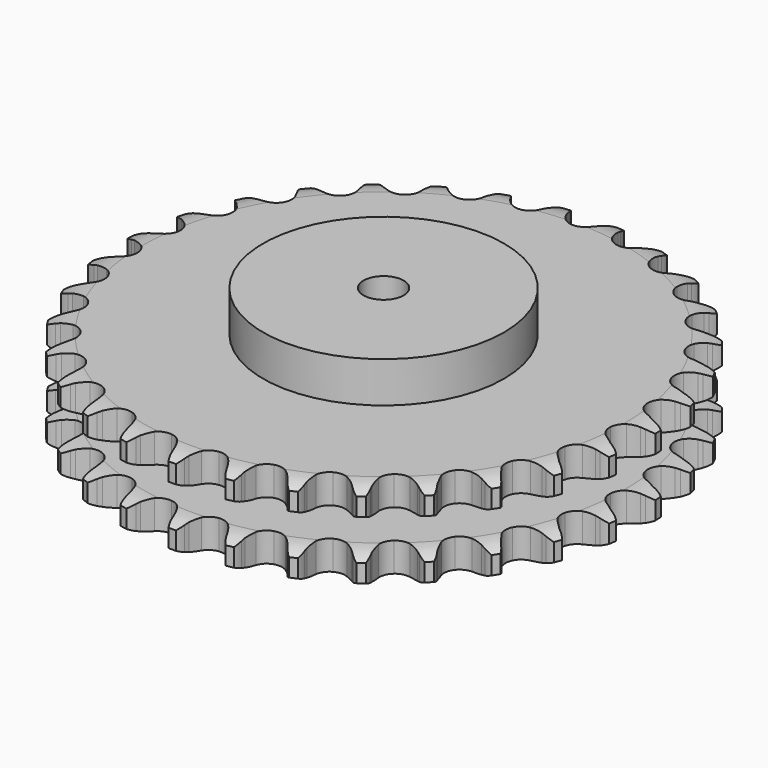
from build123d import *

# Parameters (mm, degrees)
PAD_DEPTH         = 54.6
SKETCH001_R       = 75
PAD001_DEPTH      = 80
SKETCH002_R       = 12.5
POCKET_DEPTH      = 0.001
POCKET_DEPTH_BACK = 80.001


with BuildPart() as part:
    # Sprocket → Pad (new body)
    with BuildSketch(Plane.XY):
        with BuildLine():
            ThreePointArc((-16.92638, 166.450678), (-13.997799, 163.426151), (-11.987645, 159.727012))
            Line((-11.987645, 159.727012), (-11.058502, 157.27354))
            ThreePointArc((-11.058502, 157.27354), (-9.587238, 154.08802), (-7.681974, 151.141475))
            ThreePointArc((-7.681974, 151.141475), (-4.293126, 148.318155), (0, 147.305983))
            ThreePointArc((0, 147.305983), (4.293126, 148.318155), (7.681974, 151.141475))
            ThreePointArc((7.681974, 151.141475), (9.587238, 154.08802), (11.058502, 157.27354))
            Line((11.058502, 157.27354), (11.987645, 159.727012))
            ThreePointArc((11.987645, 159.727012), (13.997799, 163.426151), (16.92638, 166.450678))
            ThreePointArc((16.92638, 166.450678), (19.186179, 162.898544), (20.410554, 158.870486))
            Line((20.410554, 158.870486), (20.826797, 156.280201))
            ThreePointArc((20.826797, 156.280201), (21.626704, 152.863726), (22.899832, 149.59397))
            ThreePointArc((22.899832, 149.59397), (25.650979, 146.146274), (29.652476, 144.29062))
            ThreePointArc((29.652476, 144.29062), (34.061471, 144.417874), (37.949279, 146.50123))
            Line((37.949279, 146.50123), (42.491065, 151.828081))
            ThreePointArc((42.491065, 151.828081), (43.1638, 152.954729), (43.895068, 154.044296))
            ThreePointArc((43.895068, 154.044296), (46.608706, 157.263072), (50.086171, 159.636168))
            ThreePointArc((50.086171, 159.636168), (51.584672, 155.701852), (51.973143, 151.509783))
            Line((51.973143, 151.509783), (51.859444, 148.888733))
            ThreePointArc((51.859444, 148.888733), (51.955245, 145.381173), (52.544116, 141.922071))
            ThreePointArc((52.544116, 141.922071), (54.544931, 137.991147), (58.090977, 135.367983))
            ThreePointArc((58.090977, 135.367983), (62.435335, 134.605108), (66.662936, 135.863208))
            Line((66.662936, 135.863208), (72.184038, 140.166763))
            ThreePointArc((72.184038, 140.166763), (73.069795, 141.134928), (74.005422, 142.054988))
            ThreePointArc((74.005422, 142.054988), (77.311447, 144.661624), (81.195428, 146.286134))
            ThreePointArc((81.195428, 146.286134), (81.871283, 142.130708), (81.407945, 137.946252))
            Line((81.407945, 137.946252), (80.76896, 135.401742))
            ThreePointArc((80.76896, 135.401742), (80.156733, 131.946698), (80.037237, 128.439865))
            ThreePointArc((80.037237, 128.439865), (81.205807, 124.186646), (84.151226, 120.903365))
            ThreePointArc((84.151226, 120.903365), (88.253089, 119.281593), (92.647404, 119.66293))
            Line((92.647404, 119.66293), (98.921788, 122.767001))
            ThreePointArc((98.921788, 122.767001), (99.984304, 123.537046), (101.085986, 124.249932))
            ThreePointArc((101.085986, 124.249932), (104.849047, 126.137712), (108.980536, 126.947129))
            ThreePointArc((108.980536, 126.947129), (108.806075, 122.740716), (107.509896, 118.735186))
            Line((107.509896, 118.735186), (106.371785, 116.371389))
            ThreePointArc((106.371785, 116.371389), (105.076595, 113.110309), (104.253625, 109.699316))
            ThreePointArc((104.253625, 109.699316), (104.542107, 105.297929), (106.766314, 101.488949))
            ThreePointArc((106.766314, 101.488949), (110.457751, 99.074676), (114.838877, 98.563637))
            Line((114.838877, 98.563637), (121.609669, 100.341144))
            ThreePointArc((121.609669, 100.341144), (122.805444, 100.881543), (124.028077, 101.358069))
            ThreePointArc((124.028077, 101.358069), (128.094116, 102.449708), (132.303967, 102.410893))
            ThreePointArc((132.303967, 102.410893), (131.286332, 98.325704), (129.210379, 94.663087))
            Line((129.210379, 94.663087), (127.619737, 92.576776))
            ThreePointArc((127.619737, 92.576776), (125.694609, 89.643171), (124.201857, 86.467664))
            ThreePointArc((124.201857, 86.467664), (123.598441, 82.098303), (125.010376, 77.919563))
            ThreePointArc((125.010376, 77.919563), (128.14026, 74.811629), (132.328833, 73.429138))
            Line((132.328833, 73.429138), (139.318836, 73.807308))
            ThreePointArc((139.318836, 73.807308), (140.598915, 74.095937), (141.892444, 74.316595))
            ThreePointArc((141.892444, 74.316595), (146.094997, 74.5674), (150.210858, 73.681944))
            ThreePointArc((150.210858, 73.681944), (148.391712, 69.885227), (145.620974, 66.71547))
            Line((145.620974, 66.71547), (143.642921, 64.99206))
            ThreePointArc((143.642921, 64.99206), (141.166671, 62.506032), (139.065251, 59.696016))
            ThreePointArc((139.065251, 59.696016), (137.594641, 55.537563), (138.136499, 51.160142))
            ThreePointArc((138.136499, 51.160142), (140.576692, 47.485786), (144.401231, 45.288441))
            Line((144.401231, 45.288441), (151.324273, 44.251793))
            ThreePointArc((151.324273, 44.251793), (152.636249, 44.276836), (153.947718, 44.232591))
            ThreePointArc((153.947718, 44.232591), (158.114731, 43.632294), (161.968099, 41.936446))
            ThreePointArc((161.968099, 41.936446), (159.421918, 38.58364), (156.06983, 36.036514))
            Line((156.06983, 36.036514), (153.785348, 34.746562))
            ThreePointArc((153.785348, 34.746562), (150.859352, 32.809888), (148.235297, 30.480406))
            ThreePointArc((148.235297, 30.480406), (145.9577, 26.703108), (145.607298, 22.306218))
            ThreePointArc((145.607298, 22.306218), (147.257897, 18.215869), (150.561825, 15.29363))
            Line((150.561825, 15.29363), (157.134477, 12.884604))
            ThreePointArc((157.134477, 12.884604), (158.424638, 12.645035), (159.700354, 12.337699))
            ThreePointArc((159.700354, 12.337699), (163.661229, 10.910877), (167.094347, 8.474066))
            ThreePointArc((167.094347, 8.474066), (163.925371, 5.702435), (160.129168, 3.882218))
            Line((160.129168, 3.882218), (157.631784, 3.078534))
            ThreePointArc((157.631784, 3.078534), (154.375834, 1.770503), (151.336572, 0.016924))
            ThreePointArc((151.336572, 0.016924), (148.345233, -3.224575), (147.116916, -7.460926))
            ThreePointArc((147.116916, -7.460926), (147.910347, -11.799807), (150.558401, -15.327304))
            Line((150.558401, -15.327304), (156.511576, -19.010083))
            ThreePointArc((156.511576, -19.010083), (157.727103, -19.504454), (158.914839, -20.062299))
            ThreePointArc((158.914839, -20.062299), (162.507418, -22.257232), (165.379733, -25.335243))
            ThreePointArc((165.379733, -25.335243), (161.717701, -27.412229), (157.632799, -28.431015))
            Line((157.632799, -28.431015), (155.024757, -28.715528))
            ThreePointArc((155.024757, -28.715528), (151.572152, -29.341367), (148.24211, -30.44725))
            ThreePointArc((148.24211, -30.44725), (144.659495, -33.020244), (142.603551, -36.922618))
            ThreePointArc((142.603551, -36.922618), (142.507329, -41.332398), (144.391098, -45.320737))
            Line((144.391098, -45.320737), (149.481074, -50.126494))
            ThreePointArc((149.481074, -50.126494), (150.572202, -50.855429), (151.623332, -51.640945))
            ThreePointArc((151.623332, -51.640945), (154.700533, -54.514128), (156.894453, -58.107325))
            ThreePointArc((156.894453, -58.107325), (152.889289, -59.404633), (148.682925, -59.58028))
            Line((148.682925, -59.58028), (146.070997, -59.333974))
            ThreePointArc((146.070997, -59.333974), (142.563087, -59.251997), (139.078599, -59.664911))
            ThreePointArc((139.078599, -59.664911), (135.051381, -61.46406), (132.25198, -64.872693))
            ThreePointArc((132.25198, -64.872693), (131.270045, -69.172836), (132.312406, -73.458733))
            Line((132.312406, -73.458733), (136.330798, -79.19072))
            ThreePointArc((136.330798, -79.19072), (137.252858, -80.124377), (138.124348, -81.105404))
            ThreePointArc((138.124348, -81.105404), (140.560191, -84.539209), (141.985896, -88.500486))
            ThreePointArc((141.985896, -88.500486), (137.801572, -88.965004), (133.645955, -88.290321))
            Line((133.645955, -88.290321), (131.137074, -87.523279))
            ThreePointArc((131.137074, -87.523279), (127.717473, -86.736843), (124.221194, -86.439882))
            ThreePointArc((124.221194, -86.439882), (119.914247, -87.39153), (116.485997, -90.166873))
            ThreePointArc((116.485997, -90.166873), (114.65855, -94.18133), (114.816829, -98.58932))
            Line((114.816829, -98.58932), (117.599124, -105.01287))
            ThreePointArc((117.599124, -105.01287), (118.314365, -106.113024), (118.970537, -107.249398))
            ThreePointArc((118.970537, -107.249398), (120.665298, -111.103245), (121.26442, -115.270426))
            ThreePointArc((121.26442, -115.270426), (117.072242, -114.883138), (113.137503, -113.385746))
            Line((113.137503, -113.385746), (110.834384, -112.129372))
            ThreePointArc((110.834384, -112.129372), (107.643091, -110.670674), (104.278158, -109.675995))
            ThreePointArc((104.278158, -109.675995), (99.867809, -109.741181), (95.951064, -111.769611))
            ThreePointArc((95.951064, -111.769611), (93.352921, -115.334029), (92.620638, -119.683649))
            Line((92.620638, -119.683649), (94.052928, -126.53578))
            ThreePointArc((94.052928, -126.53578), (94.532068, -127.75739), (94.946058, -129.00259))
            ThreePointArc((94.946058, -129.00259), (95.830354, -133.118701), (95.578364, -137.321182))
            ThreePointArc((95.578364, -137.321182), (91.54996, -136.097942), (87.997189, -133.839145))
            Line((87.997189, -133.839145), (85.994121, -132.144874))
            ThreePointArc((85.994121, -132.144874), (83.161788, -130.073633), (80.065963, -128.42196))
            ThreePointArc((80.065963, -128.42196), (75.732772, -127.598015), (71.487882, -128.796487))
            ThreePointArc((71.487882, -128.796487), (68.225411, -131.76494), (66.632546, -135.878115))
            Line((66.632546, -135.878115), (66.656194, -142.8783))
            ThreePointArc((66.656194, -142.8783), (66.879618, -144.171354), (67.034476, -145.4744))
            ThreePointArc((67.034476, -145.4744), (67.072103, -149.684261), (65.979318, -153.749993))
            ThreePointArc((65.979318, -153.749993), (62.279613, -151.740881), (59.25426, -148.813154))
            Line((59.25426, -148.813154), (57.633249, -146.75035))
            ThreePointArc((57.633249, -146.75035), (55.275831, -144.151363), (52.575857, -141.910315))
            ThreePointArc((52.575857, -141.910315), (48.497226, -140.230971), (44.097979, -140.550421))
            ThreePointArc((44.097979, -140.550421), (40.304746, -142.801378), (37.916511, -146.509715))
            Line((37.916511, -146.509715), (36.530547, -153.371366))
            ThreePointArc((36.530547, -153.371366), (36.489108, -154.682926), (36.378495, -155.990471))
            ThreePointArc((36.378495, -155.990471), (35.567913, -160.121731), (33.679072, -163.88426))
            ThreePointArc((33.679072, -163.88426), (30.459531, -161.17153), (28.085454, -157.694734))
            Line((28.085454, -157.694734), (26.912865, -155.34785))
            ThreePointArc((26.912865, -155.34785), (25.126875, -152.327519), (22.93329, -149.588845))
            ThreePointArc((22.93329, -149.588845), (19.276198, -147.122854), (14.902699, -146.550203))
            ThreePointArc((14.902699, -146.550203), (10.733999, -147.991511), (7.648169, -151.14319))
            Line((7.648169, -151.14319), (4.909336, -157.58539))
            ThreePointArc((4.909336, -157.58539), (4.604729, -158.861761), (4.233174, -160.120274))
            ThreePointArc((4.233174, -160.120274), (2.607568, -164.003798), (0, -167.309087))
            ThreePointArc((0, -167.309087), (-2.607568, -164.003798), (-4.233174, -160.120274))
            Line((-4.233174, -160.120274), (-4.909336, -157.58539))
            ThreePointArc((-4.909336, -157.58539), (-6.050777, -154.267369), (-7.648169, -151.14319))
            ThreePointArc((-7.648169, -151.14319), (-10.733999, -147.991511), (-14.902699, -146.550203))
            ThreePointArc((-14.902699, -146.550203), (-19.276198, -147.122854), (-22.93329, -149.588845))
            Line((-22.93329, -149.588845), (-26.912865, -155.34785))
            ThreePointArc((-26.912865, -155.34785), (-27.468167, -156.536777), (-28.085454, -157.694734))
            ThreePointArc((-28.085454, -157.694734), (-30.459531, -161.17153), (-33.679072, -163.88426))
            ThreePointArc((-33.679072, -163.88426), (-35.567913, -160.121731), (-36.378495, -155.990471))
            Line((-36.378495, -155.990471), (-36.530547, -153.371366))
            ThreePointArc((-36.530547, -153.371366), (-36.980711, -149.891494), (-37.916511, -146.509715))
            ThreePointArc((-37.916511, -146.509715), (-40.304746, -142.801378), (-44.097979, -140.550421))
            ThreePointArc((-44.097979, -140.550421), (-48.497226, -140.230971), (-52.575857, -141.910315))
            Line((-52.575857, -141.910315), (-57.633249, -146.75035))
            ThreePointArc((-57.633249, -146.75035), (-58.416514, -147.803158), (-59.25426, -148.813154))
            ThreePointArc((-59.25426, -148.813154), (-62.279613, -151.740881), (-65.979318, -153.749993))
            ThreePointArc((-65.979318, -153.749993), (-67.072103, -149.684261), (-67.034476, -145.4744))
            Line((-67.034476, -145.4744), (-66.656194, -142.8783))
            ThreePointArc((-66.656194, -142.8783), (-66.396649, -139.379044), (-66.632546, -135.878115))
            ThreePointArc((-66.632546, -135.878115), (-68.225411, -131.76494), (-71.487882, -128.796487))
            ThreePointArc((-71.487882, -128.796487), (-75.732772, -127.598015), (-80.065963, -128.42196))
            Line((-80.065963, -128.42196), (-85.994121, -132.144874))
            ThreePointArc((-85.994121, -132.144874), (-86.973281, -133.018461), (-87.997189, -133.839145))
            ThreePointArc((-87.997189, -133.839145), (-91.54996, -136.097942), (-95.578364, -137.321182))
            ThreePointArc((-95.578364, -137.321182), (-95.830354, -133.118701), (-94.946058, -129.00259))
            Line((-94.946058, -129.00259), (-94.052928, -126.53578))
            ThreePointArc((-94.052928, -126.53578), (-93.094301, -123.1604), (-92.620638, -119.683649))
            ThreePointArc((-92.620638, -119.683649), (-93.352921, -115.334029), (-95.951064, -111.769611))
            ThreePointArc((-95.951064, -111.769611), (-99.867809, -109.741181), (-104.278158, -109.675995))
            Line((-104.278158, -109.675995), (-110.834384, -112.129372))
            ThreePointArc((-110.834384, -112.129372), (-111.969353, -112.787973), (-113.137503, -113.385746))
            ThreePointArc((-113.137503, -113.385746), (-117.072242, -114.883138), (-121.26442, -115.270426))
            ThreePointArc((-121.26442, -115.270426), (-120.665298, -111.103245), (-118.970537, -107.249398))
            Line((-118.970537, -107.249398), (-117.599124, -105.01287))
            ThreePointArc((-117.599124, -105.01287), (-115.980662, -101.899554), (-114.816829, -98.58932))
            ThreePointArc((-114.816829, -98.58932), (-114.65855, -94.18133), (-116.485997, -90.166873))
            ThreePointArc((-116.485997, -90.166873), (-119.914247, -87.39153), (-124.221194, -86.439882))
            Line((-124.221194, -86.439882), (-131.137074, -87.523279))
            ThreePointArc((-131.137074, -87.523279), (-132.381385, -87.939931), (-133.645955, -88.290321))
            ThreePointArc((-133.645955, -88.290321), (-137.801572, -88.965004), (-141.985896, -88.500486))
            ThreePointArc((-141.985896, -88.500486), (-140.560191, -84.539209), (-138.124348, -81.105404))
            Line((-138.124348, -81.105404), (-136.330798, -79.19072))
            ThreePointArc((-136.330798, -79.19072), (-134.11876, -76.466929), (-132.312406, -73.458733))
            ThreePointArc((-132.312406, -73.458733), (-131.270045, -69.172836), (-132.25198, -64.872693))
            ThreePointArc((-132.25198, -64.872693), (-135.051381, -61.46406), (-139.078599, -59.664911))
            Line((-139.078599, -59.664911), (-146.070997, -59.333974))
            ThreePointArc((-146.070997, -59.333974), (-147.373709, -59.491619), (-148.682925, -59.58028))
            ThreePointArc((-148.682925, -59.58028), (-152.889289, -59.404633), (-156.894453, -58.107325))
            ThreePointArc((-156.894453, -58.107325), (-154.700533, -54.514128), (-151.623332, -51.640945))
            Line((-151.623332, -51.640945), (-149.481074, -50.126494))
            ThreePointArc((-149.481074, -50.126494), (-146.766021, -47.903738), (-144.391098, -45.320737))
            ThreePointArc((-144.391098, -45.320737), (-142.507329, -41.332398), (-142.603551, -36.922618))
            ThreePointArc((-142.603551, -36.922618), (-144.659495, -33.020244), (-148.24211, -30.44725))
            Line((-148.24211, -30.44725), (-155.024757, -28.715528))
            ThreePointArc((-155.024757, -28.715528), (-156.332535, -28.607713), (-157.632799, -28.431015))
            ThreePointArc((-157.632799, -28.431015), (-161.717701, -27.412229), (-165.379733, -25.335243))
            ThreePointArc((-165.379733, -25.335243), (-162.507418, -22.257232), (-158.914839, -20.062299))
            Line((-158.914839, -20.062299), (-156.511576, -19.010083))
            ThreePointArc((-156.511576, -19.010083), (-153.404663, -17.379363), (-150.558401, -15.327304))
            ThreePointArc((-150.558401, -15.327304), (-147.910347, -11.799807), (-147.116916, -7.460926))
            ThreePointArc((-147.116916, -7.460926), (-148.345233, -3.224575), (-151.336572, 0.016924))
            Line((-151.336572, 0.016924), (-157.631784, 3.078534))
            ThreePointArc((-157.631784, 3.078534), (-158.891089, 3.447397), (-160.129168, 3.882218))
            ThreePointArc((-160.129168, 3.882218), (-163.925371, 5.702435), (-167.094347, 8.474066))
            ThreePointArc((-167.094347, 8.474066), (-163.661229, 10.910877), (-159.700354, 12.337699))
            Line((-159.700354, 12.337699), (-157.134477, 12.884604))
            ThreePointArc((-157.134477, 12.884604), (-153.762901, 13.856525), (-150.561825, 15.29363))
            ThreePointArc((-150.561825, 15.29363), (-147.257897, 18.215869), (-145.607298, 22.306218))
            ThreePointArc((-145.607298, 22.306218), (-145.9577, 26.703108), (-148.235297, 30.480406))
            Line((-148.235297, 30.480406), (-153.785348, 34.746562))
            ThreePointArc((-153.785348, 34.746562), (-154.944623, 35.36137), (-156.06983, 36.036514))
            ThreePointArc((-156.06983, 36.036514), (-159.421918, 38.58364), (-161.968099, 41.936446))
            ThreePointArc((-161.968099, 41.936446), (-158.114731, 43.632294), (-153.947718, 44.232591))
            Line((-153.947718, 44.232591), (-151.324273, 44.251793))
            ThreePointArc((-151.324273, 44.251793), (-147.826067, 44.525126), (-144.401231, 45.288441))
            ThreePointArc((-144.401231, 45.288441), (-140.576692, 47.485786), (-138.136499, 51.160142))
            ThreePointArc((-138.136499, 51.160142), (-137.594641, 55.537563), (-139.065251, 59.696016))
            Line((-139.065251, 59.696016), (-143.642921, 64.99206))
            ThreePointArc((-143.642921, 64.99206), (-144.654706, 65.827644), (-145.620974, 66.71547))
            ThreePointArc((-145.620974, 66.71547), (-148.391712, 69.885227), (-150.210858, 73.681944))
            ThreePointArc((-150.210858, 73.681944), (-146.094997, 74.5674), (-141.892444, 74.316595))
            Line((-141.892444, 74.316595), (-139.318836, 73.807308))
            ThreePointArc((-139.318836, 73.807308), (-135.837217, 73.370862), (-132.328833, 73.429138))
            ThreePointArc((-132.328833, 73.429138), (-128.14026, 74.811629), (-125.010376, 77.919563))
            ThreePointArc((-125.010376, 77.919563), (-123.598441, 82.098303), (-124.201857, 86.467664))
            Line((-124.201857, 86.467664), (-127.619737, 92.576776))
            ThreePointArc((-127.619737, 92.576776), (-128.442609, 93.598926), (-129.210379, 94.663087))
            ThreePointArc((-129.210379, 94.663087), (-131.286332, 98.325704), (-132.303967, 102.410893))
            ThreePointArc((-132.303967, 102.410893), (-128.094116, 102.449708), (-124.028077, 101.358069))
            Line((-124.028077, 101.358069), (-121.609669, 100.341144))
            ThreePointArc((-121.609669, 100.341144), (-118.287175, 99.212787), (-114.838877, 98.563637))
            ThreePointArc((-114.838877, 98.563637), (-110.457751, 99.074676), (-106.766314, 101.488949))
            ThreePointArc((-106.766314, 101.488949), (-104.542107, 105.297929), (-104.253625, 109.699316))
            Line((-104.253625, 109.699316), (-106.371785, 116.371389))
            ThreePointArc((-106.371785, 116.371389), (-106.972056, 117.538258), (-107.509896, 118.735186))
            ThreePointArc((-107.509896, 118.735186), (-108.806075, 122.740716), (-108.980536, 126.947129))
            ThreePointArc((-108.980536, 126.947129), (-104.849047, 126.137712), (-101.085986, 124.249932))
            Line((-101.085986, 124.249932), (-98.921788, 122.767001))
            ThreePointArc((-98.921788, 122.767001), (-95.894442, 120.992929), (-92.647404, 119.66293))
            ThreePointArc((-92.647404, 119.66293), (-88.253089, 119.281593), (-84.151226, 120.903365))
            ThreePointArc((-84.151226, 120.903365), (-81.205807, 124.186646), (-80.037237, 128.439865))
            Line((-80.037237, 128.439865), (-80.76896, 135.401742))
            ThreePointArc((-80.76896, 135.401742), (-81.122054, 136.665559), (-81.407945, 137.946252))
            ThreePointArc((-81.407945, 137.946252), (-81.871283, 142.130708), (-81.195428, 146.286134))
            ThreePointArc((-81.195428, 146.286134), (-77.311447, 144.661624), (-74.005422, 142.054988))
            Line((-74.005422, 142.054988), (-72.184038, 140.166763))
            ThreePointArc((-72.184038, 140.166763), (-69.57578, 137.819606), (-66.662936, 135.863208))
            ThreePointArc((-66.662936, 135.863208), (-62.435335, 134.605108), (-58.090977, 135.367983))
            ThreePointArc((-58.090977, 135.367983), (-54.544931, 137.991147), (-52.544116, 141.922071))
            Line((-52.544116, 141.922071), (-51.859444, 148.888733))
            ThreePointArc((-51.859444, 148.888733), (-51.950906, 150.197757), (-51.973143, 151.509783))
            ThreePointArc((-51.973143, 151.509783), (-51.584672, 155.701852), (-50.086171, 159.636168))
            ThreePointArc((-50.086171, 159.636168), (-46.608706, 157.263072), (-43.895068, 154.044296))
            Line((-43.895068, 154.044296), (-42.491065, 151.828081))
            ThreePointArc((-42.491065, 151.828081), (-40.408677, 149.003932), (-37.949279, 146.50123))
            ThreePointArc((-37.949279, 146.50123), (-34.061471, 144.417874), (-29.652476, 144.29062))
            ThreePointArc((-29.652476, 144.29062), (-25.650979, 146.146274), (-22.899832, 149.59397))
            Line((-22.899832, 149.59397), (-20.826797, 156.280201))
            ThreePointArc((-20.826797, 156.280201), (-20.652882, 157.58084), (-20.410554, 158.870486))
            ThreePointArc((-20.410554, 158.870486), (-19.186179, 162.898544), (-16.92638, 166.450678))
        make_face()
    extrude(amount=PAD_DEPTH)

    # Sketch → Groove (revolve, cut)
    with BuildSketch(Plane.XZ):
        with BuildLine():
            ThreePointArc((149.948368, 0), (157.431683, 0.887302), (164.5, 3.5))
            Line((164.5, 3.5), (164.5, 14.7))
            ThreePointArc((164.5, 14.7), (157.431683, 17.312698), (149.948368, 18.2))
            Line((75, 18.2), (149.948368, 18.2))
            Line((75, 36.4), (75, 18.2))
            Line((149.948368, 36.4), (75, 36.4))
            ThreePointArc((149.948368, 36.4), (157.431683, 37.287302), (164.5, 39.9))
            Line((164.5, 39.9), (164.5, 51.1))
            ThreePointArc((164.5, 51.1), (157.431683, 53.712698), (149.948368, 54.6))
            Line((149.948368, 54.6), (174.5, 54.6))
            Line((174.5, 54.6), (174.5, 0))
            Line((149.948368, 0), (174.5, 0))
        make_face()
    revolve(axis=Axis((0, 0, 0), (0, 0, 1)), mode=Mode.SUBTRACT)

    # Sketch001 → Pad001 (join)
    with BuildSketch(Plane.XY):
        Circle(SKETCH001_R)
    extrude(amount=PAD001_DEPTH)

    # Sketch002 → Pocket (cut, two sides)
    with BuildSketch(Plane.XY) as pocket_sk:
        Circle(SKETCH002_R)
    extrude(amount=-POCKET_DEPTH, mode=Mode.SUBTRACT)
    extrude(pocket_sk.sketch, amount=POCKET_DEPTH_BACK, mode=Mode.SUBTRACT)


solid = part.part
